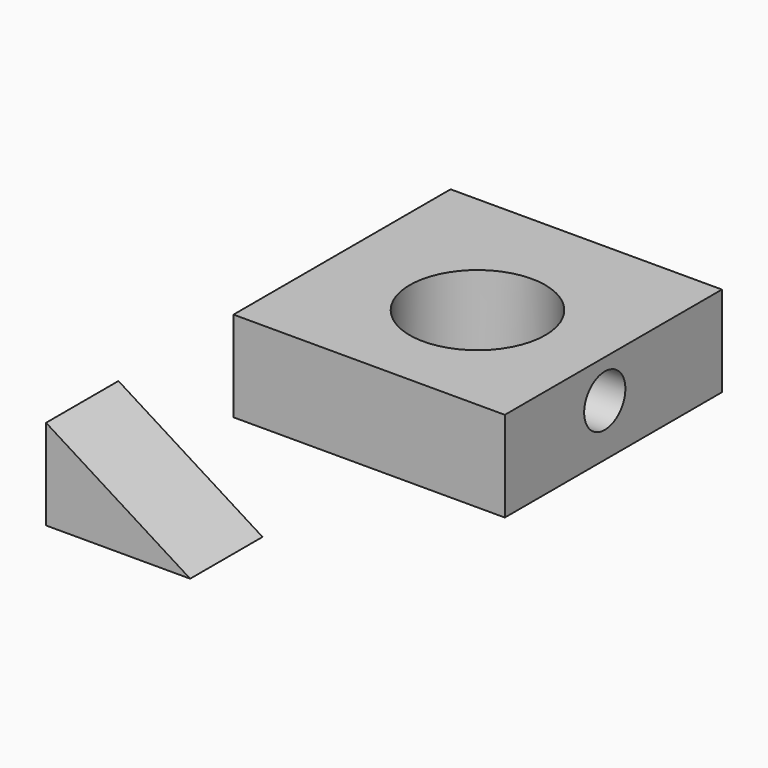
from build123d import *

# Parameters (mm, degrees)
F0_W     = 76.2
F0_H     = 76.2
F0_R     = 19.05
F1_DEPTH = 25.4
F2_R     = 7.2330774602
F3_DEPTH = 25.4
F7_DEPTH = 25.4


with BuildPart() as f1:
    # F0 (on Top) → F1 (new body)
    with BuildSketch(Plane.XY):
        with Locations((-2.3610922456, 3.023998341)):
            Rectangle(F0_W, F0_H)
        Circle(F0_R, mode=Mode.SUBTRACT)
    extrude(amount=F1_DEPTH)

    # F2 (on face) → F3 (cut)
    with BuildSketch(Plane.YZ.offset(35.7389077544)):
        with Locations((0, 14.6398795769)):
            Circle(F2_R)
    extrude(amount=-F3_DEPTH, mode=Mode.SUBTRACT)


with BuildPart() as f7:
    # F6 (on offset) → F7 (new body)
    with BuildSketch(Plane.XZ.offset(75.462001659)):
        Polygon((-40.4610922456, 0), (0, 0), (-40.4610922456, 25.4), align=None)
    extrude(amount=F7_DEPTH)


solid = Compound([f1.part, f7.part])
